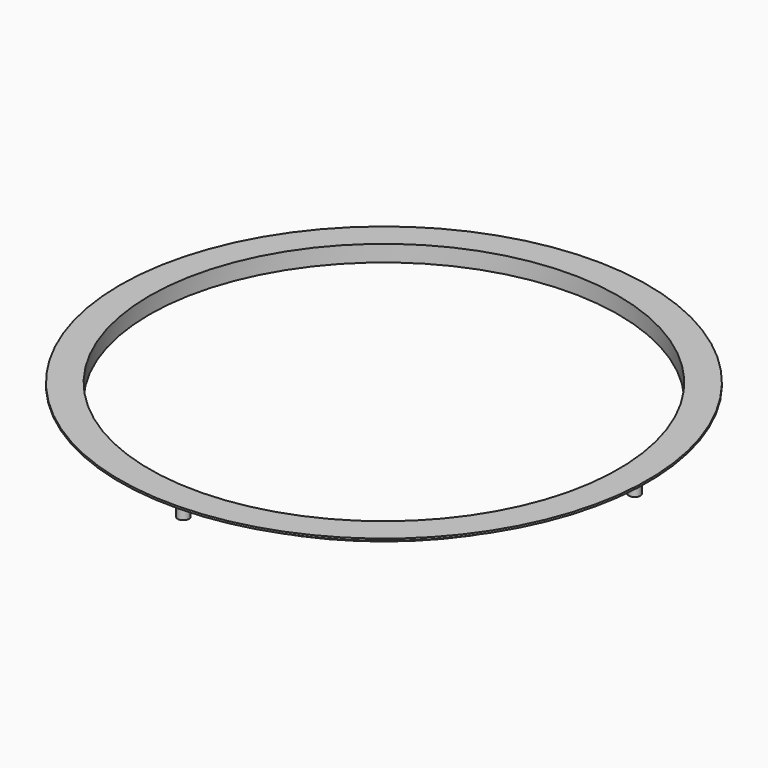
from build123d import *

# Parameters (mm, degrees)
POLARPATTERN_COUNT = 4


with BuildPart() as part:
    # Sketch371 → Revolution001 (revolve)
    with BuildSketch(Plane.XZ):
        Polygon((-109.5, 0.8), (-97.3, 0.8), (-97.3, -6), (-98.5, -6), (-98.5, 0), (-109.5, 0), align=None)
    revolve(axis=Axis((0, 0, 0), (0, 0, 1)))

    # Sketch372 (on DatumPlane) → Revolution002 (revolve)
    with BuildSketch(Plane(origin=(104, 0, 0), x_dir=(1, 0, 0), z_dir=(0, -1, 0))):
        Polygon((2.35, -6), (2.35, -0.85), (3.2, 0), (0.925, 0), (0.925, -6), align=None)
    revolution002 = revolve(axis=Axis((104, 0, 0), (0, 0, 1)))

    # PolarPattern: Revolution002 ×4 about axis
    polarpattern_axis = Axis((0, 0, 0), (0, 0, 1))
    for i in range(1, POLARPATTERN_COUNT):
        add(revolution002.rotate(polarpattern_axis, i * 360 / POLARPATTERN_COUNT))


with BuildPart() as part_1:
    # Body022078 placement: moved
    add(part.part.moved(Location((0, 0, -144.5))))


solid = part_1.part
